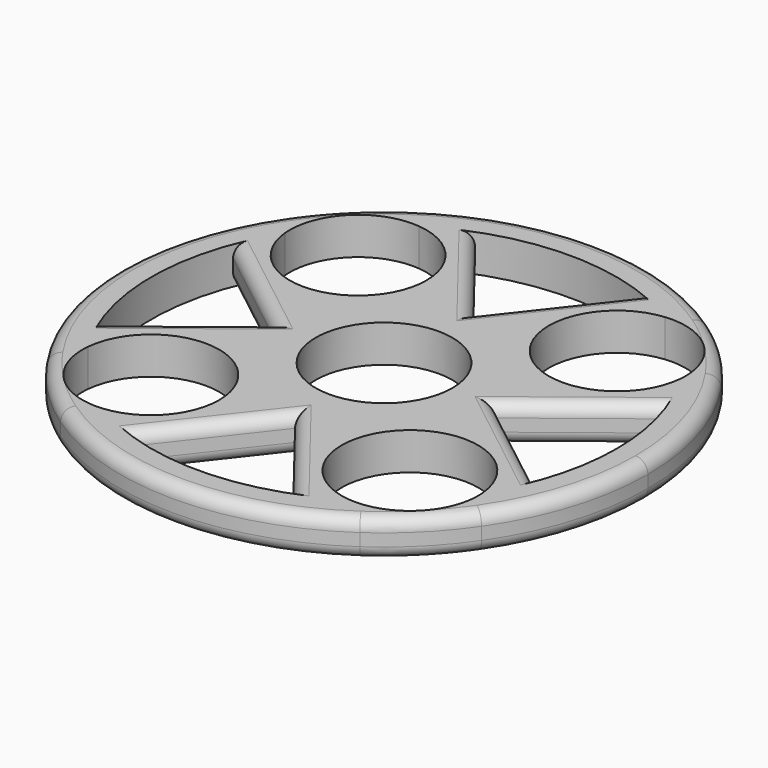
from build123d import *

# Parameters (mm, degrees)
F0_R     = 11
F1_DEPTH = 6
F2_R     = 2


with BuildPart() as f1:
    # F0 (on Top) → F1 (new body)
    with BuildSketch(Plane.XY):
        with BuildLine():
            Line((0, -17.9097384963), (13.3603457361, -35))
            ThreePointArc((13.3603457361, -35), (16.6545076898, -33.5578040372), (19.7952198288, -31.8064161785))
            ThreePointArc((19.7952198288, -31.8064161785), (13.0796897832, -13.0796897832), (31.8064161785, -19.7952198288))
            ThreePointArc((31.8064161785, -19.7952198288), (33.5578040372, -16.6545076898), (35, -13.3603457361))
            Line((35, -13.3603457361), (17.9097384963, 0))
            Line((17.9097384963, 0), (35, 13.3603457361))
            ThreePointArc((35, 13.3603457361), (33.5578040372, 16.6545076898), (31.8064161785, 19.7952198288))
            ThreePointArc((31.8064161785, 19.7952198288), (13.0796897832, 13.0796897832), (19.7952198288, 31.8064161785))
            ThreePointArc((19.7952198288, 31.8064161785), (16.6545076898, 33.5578040372), (13.3603457361, 35))
            Line((13.3603457361, 35), (0, 17.9097384963))
            Line((0, 17.9097384963), (-13.3603457361, 35))
            ThreePointArc((-13.3603457361, 35), (-16.6545076898, 33.5578040372), (-19.7952198288, 31.8064161785))
            ThreePointArc((-19.7952198288, 31.8064161785), (-12.712648295, 28.2507971495), (-9.8578643763, 20.8578643763))
            ThreePointArc((-9.8578643763, 20.8578643763), (-20.3259197477, 9.8707339542), (-31.8064161785, 19.7952198288))
            ThreePointArc((-31.8064161785, 19.7952198288), (-33.5578040372, 16.6545076898), (-35, 13.3603457361))
            Line((-35, 13.3603457361), (-17.9097384963, 0))
            Line((-17.9097384963, 0), (-35, -13.3603457361))
            ThreePointArc((-35, -13.3603457361), (-33.5578040372, -16.6545076898), (-31.8064161785, -19.7952198288))
            ThreePointArc((-31.8064161785, -19.7952198288), (-20.3259197477, -9.8707339542), (-9.8578643763, -20.8578643763))
            ThreePointArc((-9.8578643763, -20.8578643763), (-12.712648295, -28.2507971495), (-19.7952198288, -31.8064161785))
            ThreePointArc((-19.7952198288, -31.8064161785), (-16.6545076898, -33.5578040372), (-13.3603457361, -35))
            Line((-13.3603457361, -35), (0, -17.9097384963))
        make_face()
        Circle(F0_R, mode=Mode.SUBTRACT)
        with BuildLine():
            ThreePointArc((-24.1091269025, 35), (-30.0520382004, 30.0520382004), (-35, 24.1091269025))
            Line((-35, 24.1091269025), (-35, 13.3603457361))
            ThreePointArc((-35, 13.3603457361), (-33.5578040372, 16.6545076898), (-31.8064161785, 19.7952198288))
            ThreePointArc((-31.8064161785, 19.7952198288), (-28.6360389693, 28.6360389693), (-19.7952198288, 31.8064161785))
            ThreePointArc((-19.7952198288, 31.8064161785), (-16.6545076898, 33.5578040372), (-13.3603457361, 35))
            Line((-13.3603457361, 35), (-24.1091269025, 35))
        make_face()
        with BuildLine():
            ThreePointArc((24.1091269025, 35), (0, 42.5), (-24.1091269025, 35))
            Line((-24.1091269025, 35), (-13.3603457361, 35))
            ThreePointArc((-13.3603457361, 35), (0, 37.4632998839), (13.3603457361, 35))
            Line((13.3603457361, 35), (24.1091269025, 35))
        make_face()
        with BuildLine():
            ThreePointArc((31.8064161785, 19.7952198288), (33.5578040372, 16.6545076898), (35, 13.3603457361))
            Line((35, 13.3603457361), (35, 24.1091269025))
            ThreePointArc((35, 24.1091269025), (30.0520382004, 30.0520382004), (24.1091269025, 35))
            Line((24.1091269025, 35), (13.3603457361, 35))
            ThreePointArc((13.3603457361, 35), (16.6545076898, 33.5578040372), (19.7952198288, 31.8064161785))
            ThreePointArc((19.7952198288, 31.8064161785), (28.2507971495, 29.0030804576), (31.8578643763, 20.8578643763))
            ThreePointArc((31.8578643763, 20.8578643763), (31.8449947984, 20.3259197477), (31.8064161785, 19.7952198288))
        make_face()
        with BuildLine():
            Line((35, -13.3603457361), (35, -24.1091269025))
            ThreePointArc((35, -24.1091269025), (40.5817077019, -12.624381173), (42.5, 0))
            ThreePointArc((42.5, 0), (40.5817077019, 12.624381173), (35, 24.1091269025))
            Line((35, 24.1091269025), (35, 13.3603457361))
            ThreePointArc((35, 13.3603457361), (36.8423284696, 6.792766088), (37.4632998839, 0))
            ThreePointArc((37.4632998839, 0), (36.8423284696, -6.792766088), (35, -13.3603457361))
        make_face()
        with BuildLine():
            ThreePointArc((19.7952198288, -31.8064161785), (16.6545076898, -33.5578040372), (13.3603457361, -35))
            Line((13.3603457361, -35), (24.1091269025, -35))
            ThreePointArc((24.1091269025, -35), (30.0520382004, -30.0520382004), (35, -24.1091269025))
            Line((35, -24.1091269025), (35, -13.3603457361))
            ThreePointArc((35, -13.3603457361), (33.5578040372, -16.6545076898), (31.8064161785, -19.7952198288))
            ThreePointArc((31.8064161785, -19.7952198288), (31.8449947984, -20.3259197477), (31.8578643763, -20.8578643763))
            ThreePointArc((31.8578643763, -20.8578643763), (28.2507971495, -29.0030804576), (19.7952198288, -31.8064161785))
        make_face()
        with BuildLine():
            Line((24.1091269025, -35), (13.3603457361, -35))
            ThreePointArc((13.3603457361, -35), (0, -37.4632998839), (-13.3603457361, -35))
            Line((-13.3603457361, -35), (-24.1091269025, -35))
            ThreePointArc((-24.1091269025, -35), (0, -42.5), (24.1091269025, -35))
        make_face()
        with BuildLine():
            Line((-24.1091269025, -35), (-13.3603457361, -35))
            ThreePointArc((-13.3603457361, -35), (-16.6545076898, -33.5578040372), (-19.7952198288, -31.8064161785))
            ThreePointArc((-19.7952198288, -31.8064161785), (-28.6360389693, -28.6360389693), (-31.8064161785, -19.7952198288))
            ThreePointArc((-31.8064161785, -19.7952198288), (-33.5578040372, -16.6545076898), (-35, -13.3603457361))
            Line((-35, -13.3603457361), (-35, -24.1091269025))
            ThreePointArc((-35, -24.1091269025), (-30.0520382004, -30.0520382004), (-24.1091269025, -35))
        make_face()
        with BuildLine():
            ThreePointArc((-35, 24.1091269025), (-42.5, 0), (-35, -24.1091269025))
            Line((-35, -24.1091269025), (-35, -13.3603457361))
            ThreePointArc((-35, -13.3603457361), (-37.4632998839, 0), (-35, 13.3603457361))
            Line((-35, 13.3603457361), (-35, 24.1091269025))
        make_face()
    extrude(amount=F1_DEPTH)

    # F2
    f2_edges = [f1.edges().sort_by_distance(p)[0] for p in [
        (35, -24.109127, 6),
        (35, -24.109127, 0),
        (-26.454869, 6.680173, 6),
        (-26.454869, -6.680173, 6),
        (-6.680173, -26.454869, 6),
        (6.680173, -26.454869, 6),
        (26.454869, -6.680173, 6),
        (26.454869, 6.680173, 6),
        (6.680173, 26.454869, 6),
        (-6.680173, 26.454869, 6),
        (6.680173, 26.454869, 0),
        (-6.680173, 26.454869, 0),
        (-26.454869, 6.680173, 0),
        (-26.454869, -6.680173, 0),
        (-6.680173, -26.454869, 0),
        (6.680173, -26.454869, 0),
        (26.454869, -6.680173, 0),
        (26.454869, 6.680173, 0),
    ]]
    fillet(f2_edges, radius=F2_R)


solid = f1.part
